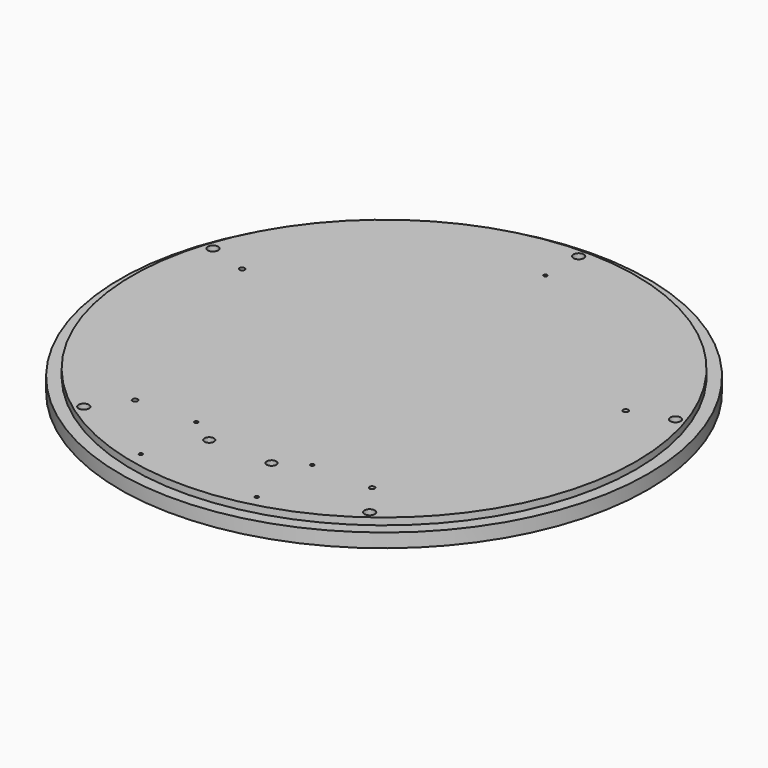
from build123d import *

# Parameters (mm, degrees)
SKETCH025_R     = 152.5
PAD015_DEPTH    = 8
SKETCH057_R     = 145.5
PAD016_DEPTH    = 4
SKETCH052_R     = 3
SKETCH052_R_2   = 1.5
SKETCH052_R_3   = 1
SKETCH052_R_4   = 2.75
POCKET018_DEPTH = 12.001


with BuildPart() as part:
    # Sketch025 → Pad015 (new body)
    with BuildSketch(Plane.XY):
        with Locations((0.142028, -323.737579)):
            Circle(SKETCH025_R)
    extrude(amount=PAD015_DEPTH)

    # Sketch057 (on DatumPlane) → Pad016 (join)
    with BuildSketch(Plane.XY.offset(8)):
        with Locations((0.142028, -323.737579)):
            Circle(SKETCH057_R)
    extrude(amount=PAD016_DEPTH)

    # Sketch052 → Pocket018 (cut, through all)
    with BuildSketch(Plane.XY.offset(12)):
        with Locations((0.142028, -183.237579)):
            Circle(SKETCH052_R)
        with Locations((133.765469, -280.320691)):
            Circle(SKETCH052_R)
        with Locations((110.940112, -287.737099)):
            Circle(SKETCH052_R_2)
        with Locations((-133.481413, -280.320691)):
            Circle(SKETCH052_R)
        with Locations((-110.656056, -287.737099)):
            Circle(SKETCH052_R_2)
        with Locations((-82.4418, -437.404467)):
            Circle(SKETCH052_R)
        with Locations((-68.334954, -417.988059)):
            Circle(SKETCH052_R_2)
        with Locations((82.725856, -437.404467)):
            Circle(SKETCH052_R)
        with Locations((68.61901, -417.988059)):
            Circle(SKETCH052_R_2)
        with Locations((-33.357972, -417.512577)):
            Circle(SKETCH052_R_3)
        with Locations((-33.357972, -457.512577)):
            Circle(SKETCH052_R_3)
        with Locations((33.642028, -457.512577)):
            Circle(SKETCH052_R_3)
        with Locations((33.642028, -417.512577)):
            Circle(SKETCH052_R_3)
        with Locations((0.142028, -207.237579)):
            Circle(SKETCH052_R_3)
        with Locations((-17.857972, -427.512577)):
            Circle(SKETCH052_R_4)
        with Locations((18.142028, -427.512577)):
            Circle(SKETCH052_R_4)
    extrude(amount=-POCKET018_DEPTH, mode=Mode.SUBTRACT)


with BuildPart() as part_1:
    # Body005 placement: moved
    add(part.part.moved(Location((154.819995, -19.410585, 0))))


solid = part_1.part
